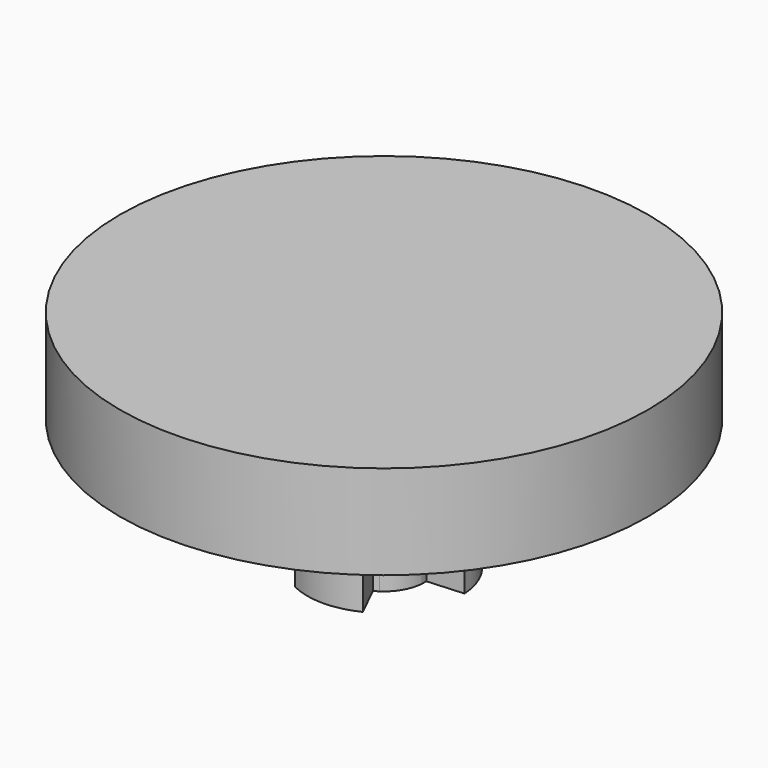
from build123d import *

# Parameters (mm, degrees)
F1_DEPTH = 6.604
F2_R     = 13.335
F3_DEPTH = 4.7498


with BuildPart() as f1:
    # F0 (on Top) → F1 (new body)
    with BuildSketch(Plane.XY):
        with BuildLine():
            ThreePointArc((-1.712611, -3.474329), (0, -3.8735), (1.712611, -3.474329))
            Line((1.712611, -3.474329), (0.898419, -1.822599))
            ThreePointArc((0.898419, -1.822599), (0, -2.032), (-0.898419, -1.822599))
            Line((-0.898419, -1.822599), (-1.712611, -3.474329))
        make_face()
        with BuildLine():
            Line((-1.129208, 1.689353), (-2.152552, 3.220329))
            ThreePointArc((-2.152552, 3.220329), (-3.354549, 1.93675), (-3.865163, 0.254))
            Line((-3.865163, 0.254), (-2.027627, 0.133246))
            ThreePointArc((-2.027627, 0.133246), (-1.759764, 1.016), (-1.129208, 1.689353))
        make_face()
        with BuildLine():
            Line((2.027627, 0.133246), (3.865163, 0.254))
            ThreePointArc((3.865163, 0.254), (3.354549, 1.93675), (2.152552, 3.220329))
            Line((2.152552, 3.220329), (1.129208, 1.689353))
            ThreePointArc((1.129208, 1.689353), (1.759764, 1.016), (2.027627, 0.133246))
        make_face()
        with BuildLine():
            ThreePointArc((2.027627, -0.133246), (2.030906, -0.066659), (2.032, 0))
            ThreePointArc((2.032, 0), (2.030906, 0.066659), (2.027627, 0.133246))
            ThreePointArc((2.027627, 0.133246), (1.759764, 1.016), (1.129208, 1.689353))
            ThreePointArc((1.129208, 1.689353), (1.016, 1.759764), (0.898419, 1.822599))
            ThreePointArc((0.898419, 1.822599), (0, 2.032), (-0.898419, 1.822599))
            ThreePointArc((-0.898419, 1.822599), (-1.016, 1.759764), (-1.129208, 1.689353))
            ThreePointArc((-1.129208, 1.689353), (-1.759764, 1.016), (-2.027627, 0.133246))
            ThreePointArc((-2.027627, 0.133246), (-2.032, 0), (-2.027627, -0.133246))
            ThreePointArc((-2.027627, -0.133246), (-1.759764, -1.016), (-1.129208, -1.689353))
            ThreePointArc((-1.129208, -1.689353), (-1.016, -1.759764), (-0.898419, -1.822599))
            ThreePointArc((-0.898419, -1.822599), (0, -2.032), (0.898419, -1.822599))
            ThreePointArc((0.898419, -1.822599), (1.016, -1.759764), (1.129208, -1.689353))
            ThreePointArc((1.129208, -1.689353), (1.759764, -1.016), (2.027627, -0.133246))
        make_face()
    extrude(amount=F1_DEPTH)

    # F2 (on face) → F3 (join)
    with BuildSketch(Plane.XY.offset(6.604)):
        Circle(F2_R)
    extrude(amount=F3_DEPTH)


solid = f1.part
